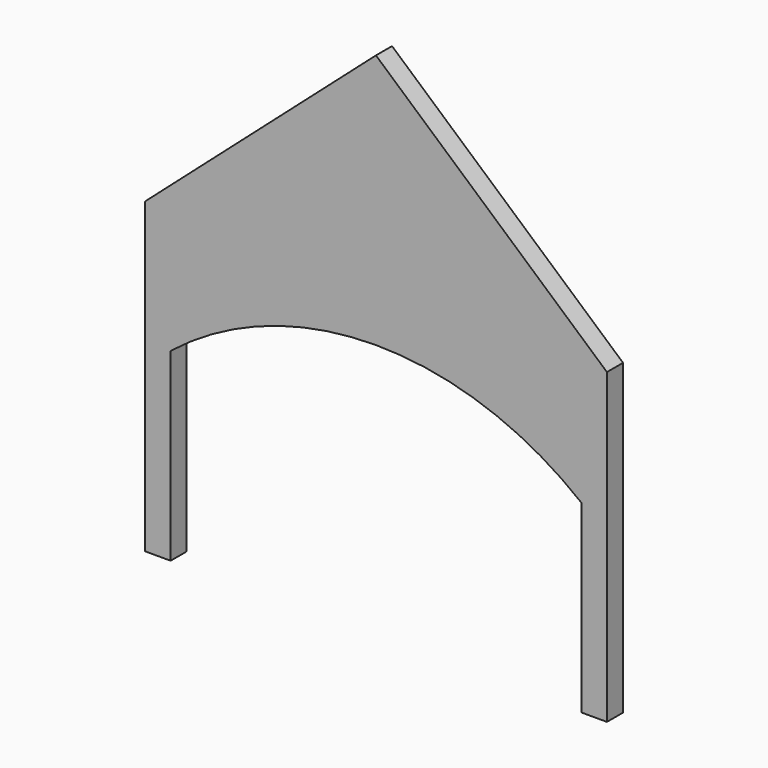
from build123d import *

# Parameters (mm, degrees)
F1_DEPTH = 4.9784


with BuildPart() as f1:
    # F0 (on Front) → F1 (new body)
    with BuildSketch(Plane.XZ):
        Polygon((57.15, -38.1), (57.15, 38.1), (-57.15, 38.1), (-57.15, -38.1), (-50.8, -38.1), (-50.8, 7.62), (-50.8, 25.4), (0, 25.4), (50.8, 25.4), (50.8, 7.62), (50.8, -38.1), align=None)
        Polygon((-57.15, 38.1), (57.15, 38.1), (0, 88.501562), align=None)
        with BuildLine():
            ThreePointArc((0, 25.4), (26.910818, 20.826622), (50.8, 7.62))
            Line((50.8, 7.62), (50.8, 25.4))
            Line((50.8, 25.4), (0, 25.4))
        make_face()
        with BuildLine():
            Line((-50.8, 25.4), (-50.8, 7.62))
            ThreePointArc((-50.8, 7.62), (-26.910818, 20.826622), (0, 25.4))
            Line((0, 25.4), (-50.8, 25.4))
        make_face()
    extrude(amount=F1_DEPTH)


solid = f1.part
